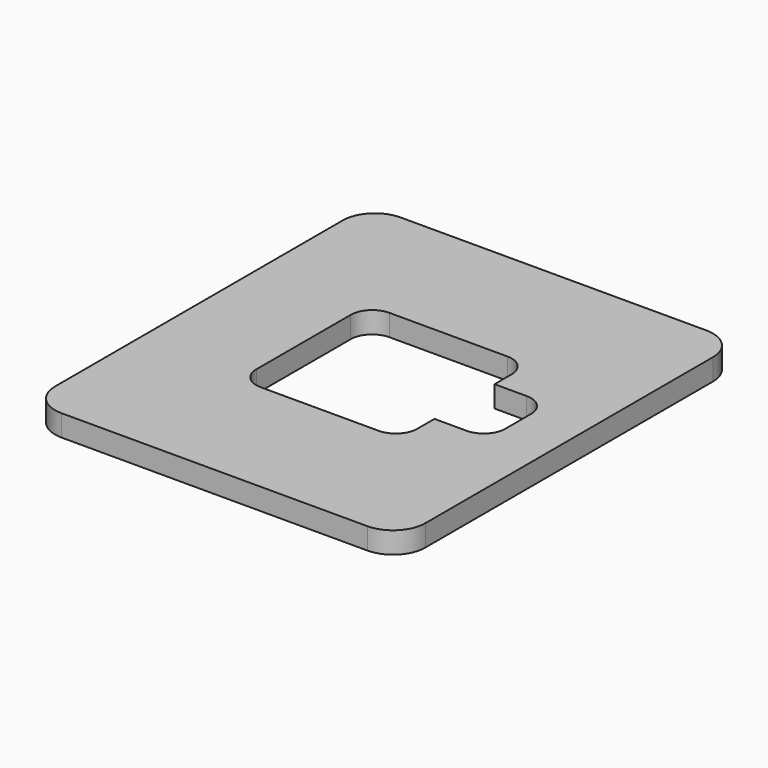
from build123d import *

# Parameters (mm, degrees)
SKETCH_W      = 34.5
SKETCH_H      = 39.5
EXTRUDE_DEPTH = 2
FILLET_R      = 3
FILLET001_R   = 2


with BuildPart() as part:
    # Sketch → Extrude (new body)
    with BuildSketch(Plane.XY):
        Rectangle(SKETCH_W, SKETCH_H)
        Polygon((-7.5, -7.5), (-7.5, 7.5), (7.5, 7.5), (7.5, 3.5), (12.5, 3.5), (12.5, -3.5), (7.5, -3.5), (7.5, -7.5), align=None, mode=Mode.SUBTRACT)
    extrude(amount=EXTRUDE_DEPTH)

    # Fillet
    fillet_edges = [part.edges().sort_by_distance(p)[0] for p in [
        (-17.25, -19.75, 1),
        (-17.25, 19.75, 1),
        (17.25, 19.75, 1),
        (17.25, -19.75, 1),
    ]]
    fillet(fillet_edges, radius=FILLET_R)

    # Fillet001
    fillet001_edges = [part.edges().sort_by_distance(p)[0] for p in [
        (-7.5, -7.5, 1),
        (-7.5, 7.5, 1),
        (7.5, 7.5, 1),
        (12.5, 3.5, 1),
        (12.5, -3.5, 1),
        (7.5, -7.5, 1),
    ]]
    fillet(fillet001_edges, radius=FILLET001_R)


solid = part.part
